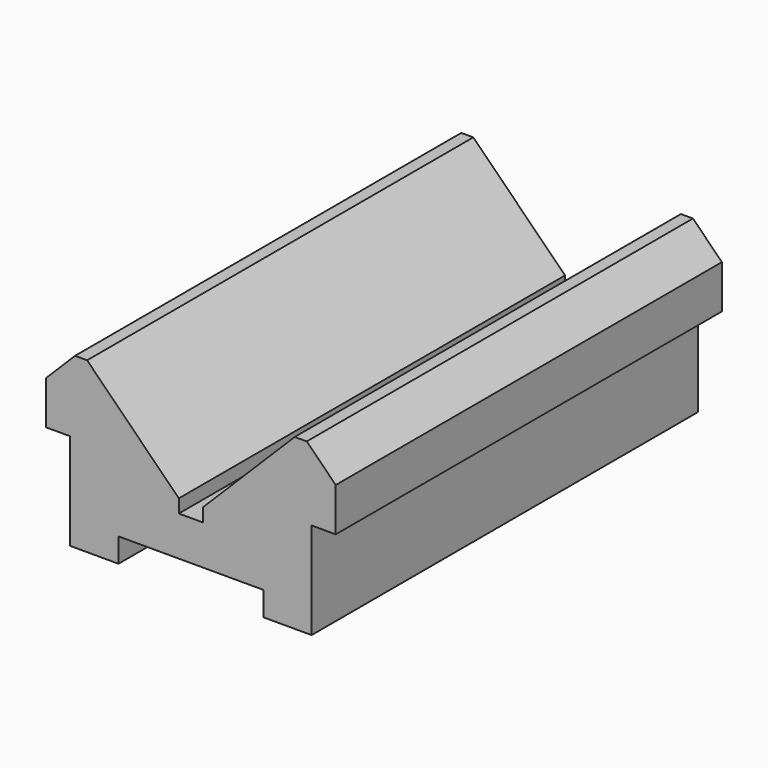
from build123d import *

# Parameters (mm, degrees)
F1_DEPTH = 100


with BuildPart() as f1:
    # F0 (on Front) → F1 (new body)
    with BuildSketch(Plane.XZ):
        Polygon((-15, -30), (0, -30), (15, -30), (15, -35), (25, -35), (25, -15), (30, -15), (30, -6), (24, 0), (21.5, 0), (2.5, -19), (2.5, -21.775213), (0, -21.775213), (-2.5, -21.775213), (-2.5, -19), (-21.5, 0), (-24, 0), (-30, -6), (-30, -15), (-25, -15), (-25, -35), (-15, -35), align=None)
    extrude(amount=F1_DEPTH)


solid = f1.part
